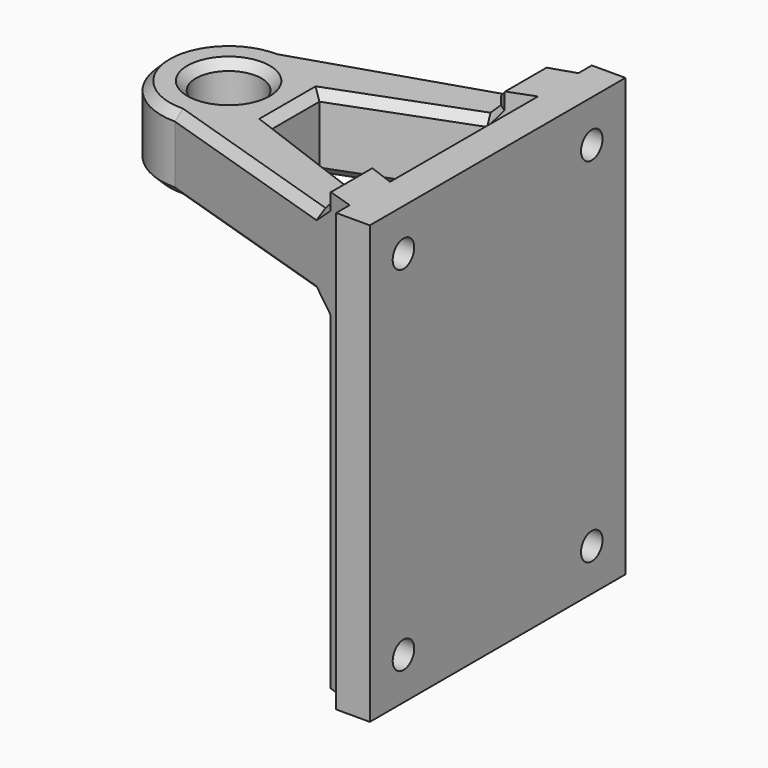
from build123d import *

# Parameters (mm, degrees)
SKETCH_R        = 1.95
PAD_DEPTH       = 26
SKETCH002_W     = 18
SKETCH002_H     = 22
POCKET_DEPTH    = 20.05
SKETCH003_W     = 18.7
SKETCH003_H     = 19.57
POCKET001_DEPTH = 1.5
CHAMFER_SIZE    = 0.5
SKETCH004_R     = 0.8
POCKET002_DEPTH = 4


with BuildPart() as part:
    # Sketch → Pad (new body)
    with BuildSketch(Plane.XY):
        with BuildLine():
            Line((14, 9.5), (16, 9.5))
            Line((16, 9.5), (16, -9.5))
            Line((16, -9.5), (14, -9.5))
            Line((14, -9.5), (14, -8.5))
            Line((0, -4), (14, -8.5))
            ThreePointArc((0, 4), (-4, 0), (0, -4))
            Line((0, 4), (14, 8.5))
            Line((14, 8.5), (14, 9.5))
        make_face()
        Circle(SKETCH_R, mode=Mode.SUBTRACT)
        Polygon((4, 1.75), (4, -1.75), (14, -5.5), (14, 5.5), align=None, mode=Mode.SUBTRACT)
    extrude(amount=PAD_DEPTH)

    # Sketch002 (on Face14 of Pad) → Pocket (cut)
    with BuildSketch(Plane(origin=(0, 0, 0), x_dir=(1, 0, 0), z_dir=(0, 0, -1))):
        with Locations((3, 0)):
            Rectangle(SKETCH002_W, SKETCH002_H)
    extrude(amount=-POCKET_DEPTH, mode=Mode.SUBTRACT)

    # Sketch003 (on Face6 of Pocket) → Pocket001 (cut)
    with BuildSketch(Plane.XY.offset(26)):
        with Locations((2.65, 0.635)):
            Rectangle(SKETCH003_W, SKETCH003_H)
    extrude(amount=-POCKET001_DEPTH, mode=Mode.SUBTRACT)

    # Chamfer
    chamfer_edges = [part.edges().sort_by_distance(p)[0] for p in [
        (6, -5.928571, 20.05),
        (-4, 0, 20.05),
        (6, 5.928571, 20.05),
        (12, 6.303571, 20.05),
        (8, 3.25, 20.05),
        (4, 0, 20.05),
        (8, -3.25, 20.05),
        (12, -6.303571, 20.05),
        (-1.95, 0, 20.05),
        (12, 6.303571, 26),
        (12, 4.75, 25.25),
        (12, 6.303571, 24.5),
        (12, 7.857143, 25.25),
        (6, 5.928571, 24.5),
        (-4, 0, 24.5),
        (6, -5.928571, 24.5),
        (12, -6.303571, 24.5),
        (8, -3.25, 24.5),
        (4, 0, 24.5),
        (8, 3.25, 24.5),
        (-1.95, 0, 24.5),
        (12, -6.303571, 26),
        (12, -7.857143, 25.25),
        (12, -4.75, 25.25),
        (12, 6.303571, 0),
        (12, 7.857143, 10.025),
        (12, 4.75, 10.025),
        (12, -6.303571, 0),
        (12, -4.75, 10.025),
        (12, -7.857143, 10.025),
    ]]
    chamfer(chamfer_edges, length=CHAMFER_SIZE)

    # Sketch004 (on Face20 of Chamfer) → Pocket002 (cut)
    with BuildSketch(Plane.YZ.offset(16)):
        with Locations((7, 23.5)):
            Circle(SKETCH004_R)
        with Locations((7, 2.5)):
            Circle(SKETCH004_R)
        with Locations((-7, 2.5)):
            Circle(SKETCH004_R)
        with Locations((-7, 23.5)):
            Circle(SKETCH004_R)
    extrude(amount=-POCKET002_DEPTH, mode=Mode.SUBTRACT)


solid = part.part
